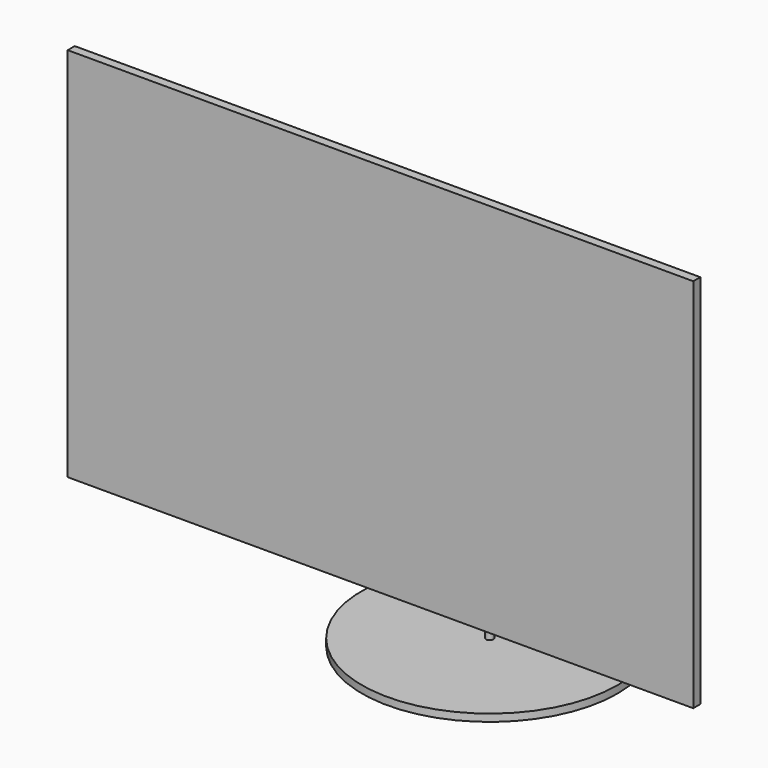
from build123d import *

# Parameters (mm, degrees)
F0_W     = 541.02
F0_H     = 325.12
F1_DEPTH = 7.62
F3_R     = 3.175
F5_R     = 110.49
F5_R_2   = 3.175
F6_DEPTH = 6.35


with BuildPart() as f1:
    # F0 (on Front) → F1 (new body)
    with BuildSketch(Plane.XZ):
        Rectangle(F0_W, F0_H)
    extrude(amount=F1_DEPTH)

    # F4: sweep along a path in F2
    with BuildLine(Plane.YZ) as f4_path:
        ThreePointArc((0, 0), (78.1282282533, -32.3617717467), (110.49, -110.49))
        Line((110.49, -110.49), (110.49, -251.46))
    # F3 (on face) → F4 (sweep)
    with BuildSketch(Plane(origin=(0, 0, 0), x_dir=(-1, 0, 0), z_dir=(0, 1, 0))):
        Circle(F3_R)
    sweep(path=f4_path.line)

    # F5 (on face) → F6 (join)
    with BuildSketch(Plane(origin=(0, 0, -251.46), x_dir=(1, 0, 0), z_dir=(0, 0, -1))):
        with Locations((0, -110.49)):
            Circle(F5_R)
        with Locations((0, -110.49)):
            Circle(F5_R_2, mode=Mode.SUBTRACT)
    extrude(amount=-F6_DEPTH)


solid = f1.part
